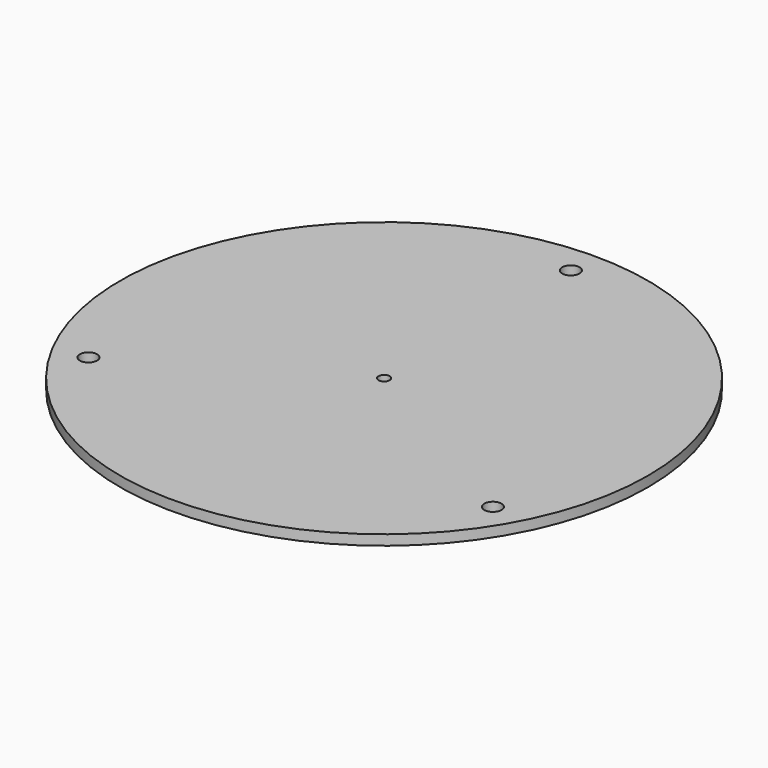
from build123d import *

# Parameters (mm, degrees)
F0_R     = 130
F1_DEPTH = 5
F2_R     = 2.75
F2_R_2   = 4.25
F3_DEPTH = 5.001


with BuildPart() as f1:
    # F0 (on Top) → F1 (new body)
    with BuildSketch(Plane.XY):
        Circle(F0_R)
    extrude(amount=F1_DEPTH)

    # F2 (on face) → F3 (cut, through all)
    with BuildSketch(Plane.XY.offset(5)):
        Circle(F2_R)
        with Locations((0, 115)):
            Circle(F2_R_2)
        with Locations((-99.592921, -57.5)):
            Circle(F2_R_2)
        with Locations((99.592921, -57.5)):
            Circle(F2_R_2)
    extrude(amount=-F3_DEPTH, mode=Mode.SUBTRACT)


solid = f1.part
